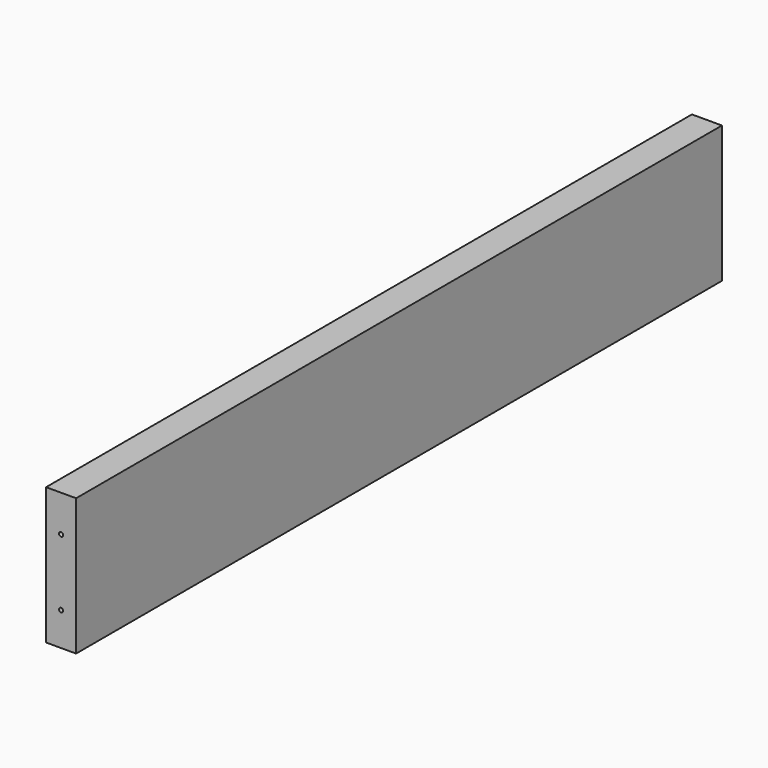
from build123d import *

# Parameters (mm, degrees)
F0_W     = 484
F0_H     = 82
F1_DEPTH = 18
F3_D     = 2.5
F3_DEPTH = 14.5
F3_TIP   = 0.7510757738
F5_D     = 2.5
F5_DEPTH = 14
F5_TIP   = 0.7510757738


with BuildPart() as f1:
    # F0 (on Right) → F1 (new body)
    with BuildSketch(Plane.YZ):
        with Locations((242, 41)):
            Rectangle(F0_W, F0_H)
    extrude(amount=F1_DEPTH)

    # F3
    with Locations(Plane.XZ):
        with Locations((9, 20), (9, 60)):
            Hole(F3_D / 2, depth=F3_DEPTH)
            with Locations((0, 0, -(F3_DEPTH + F3_TIP / 2))):  # 118° drill point
                Cone(0, F3_D / 2, F3_TIP, mode=Mode.SUBTRACT)

    # F5
    with Locations(Plane(origin=(0, 484, 0), x_dir=(-1, 0, 0), z_dir=(0, 1, 0))):
        with Locations((-9, 60), (-9, 20)):
            Hole(F5_D / 2, depth=F5_DEPTH)
            with Locations((0, 0, -(F5_DEPTH + F5_TIP / 2))):  # 118° drill point
                Cone(0, F5_D / 2, F5_TIP, mode=Mode.SUBTRACT)


solid = f1.part
